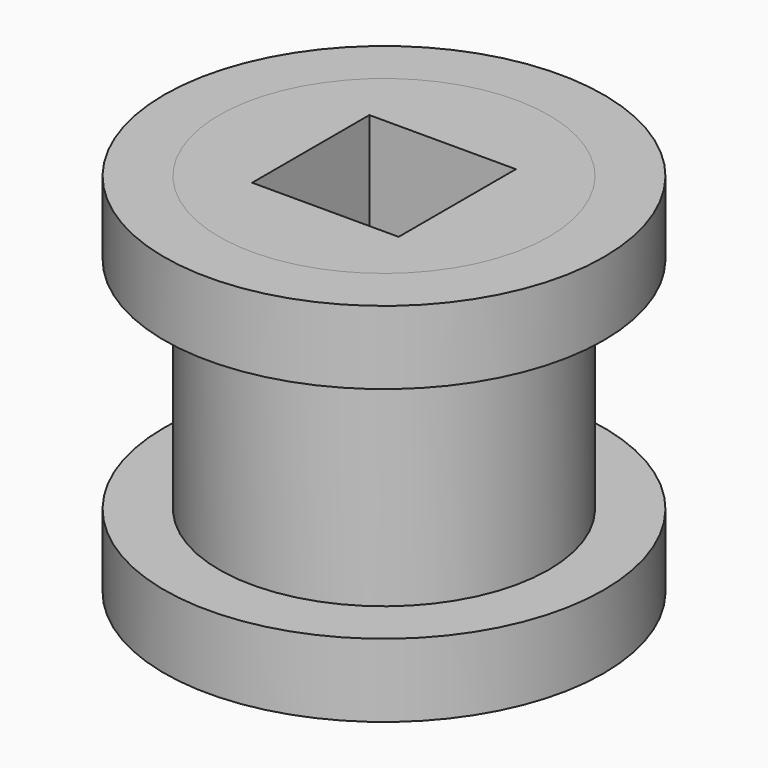
from build123d import *

# Parameters (mm, degrees)
F0_R     = 6
F0_R_2   = 4.5
F1_DEPTH = 2
F2_DEPTH = 10
F3_R     = 6
F3_R_2   = 4.5
F4_DEPTH = 2
F3_W     = 4
F3_H     = 4
F5_DEPTH = 25


with BuildPart() as f1:
    # F0 (on Top) → F1 (new body)
    with BuildSketch(Plane.XY):
        Circle(F0_R)
        Circle(F0_R_2, mode=Mode.SUBTRACT)
    extrude(amount=F1_DEPTH)

    # F0 (on Top) → F2 (join)
    with BuildSketch(Plane.XY):
        Circle(F0_R_2)
    extrude(amount=F2_DEPTH)

    # F3 (on face) → F5 (cut)
    with BuildSketch(Plane.XY.offset(10)):
        Rectangle(F3_W, F3_H)
    extrude(amount=-F5_DEPTH, mode=Mode.SUBTRACT)


with BuildPart() as f4:
    # F3 (on face) → F4 (new body)
    with BuildSketch(Plane.XY.offset(10)):
        Circle(F3_R)
        Circle(F3_R_2, mode=Mode.SUBTRACT)
    extrude(amount=-F4_DEPTH)


solid = Compound([f1.part, f4.part])
